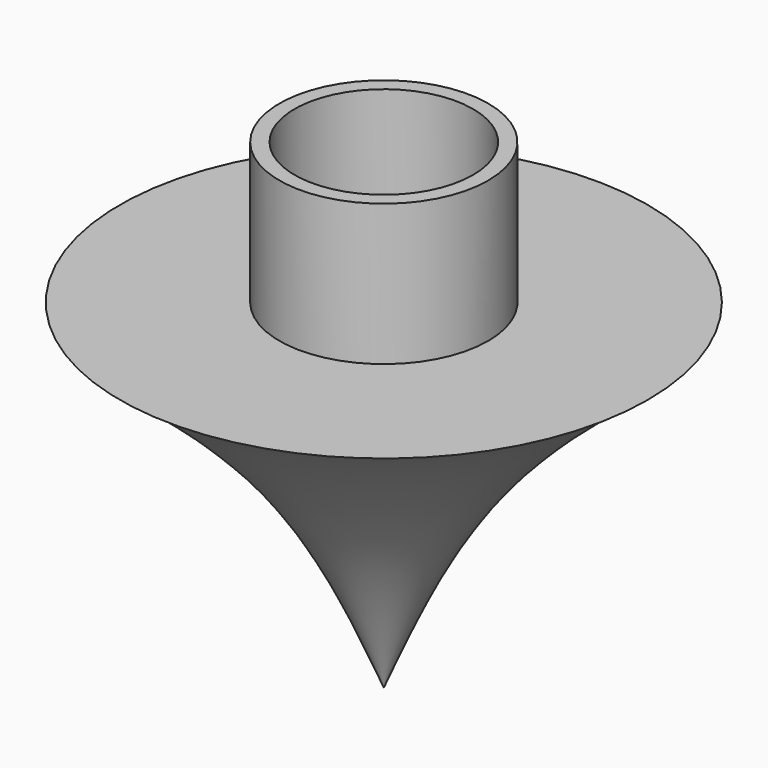
from build123d import *

# Parameters (mm, degrees)
F2_R     = 6.35
F3_DEPTH = 13.97


with BuildPart() as f1:
    # F0 (on Front) → F1 (revolve)
    with BuildSketch(Plane.XZ):
        with BuildLine():
            Line((0, 34.165252), (0, 0))
            add(Edge.make_bspline(
                [(0, 0), (2.0390175148, 4.8771278458), (5.9748510534, 14.291251662), (17.2147828214, 23.2810671304), (18.7745150179, 24.1230688989)],
                knots=[0, 0, 0, 0, 0.4685798408, 0.9044808293, 0.9044808293, 0.9044808293, 0.9044808293], degree=3))
            Line((18.7745150179, 24.1230688989), (7.4224825948, 24.1230688989))
            Line((7.4224825948, 24.1230688989), (7.4224825948, 34.165252))
            Line((7.4224825948, 34.165252), (0, 34.165252))
        make_face()
    revolve(axis=Axis((0, 0, 17.082626), (0, 0, -1)))

    # F2 (on face) → F3 (cut)
    with BuildSketch(Plane.XY.offset(34.1652520001)):
        Circle(F2_R)
    extrude(amount=-F3_DEPTH, mode=Mode.SUBTRACT)


solid = f1.part
